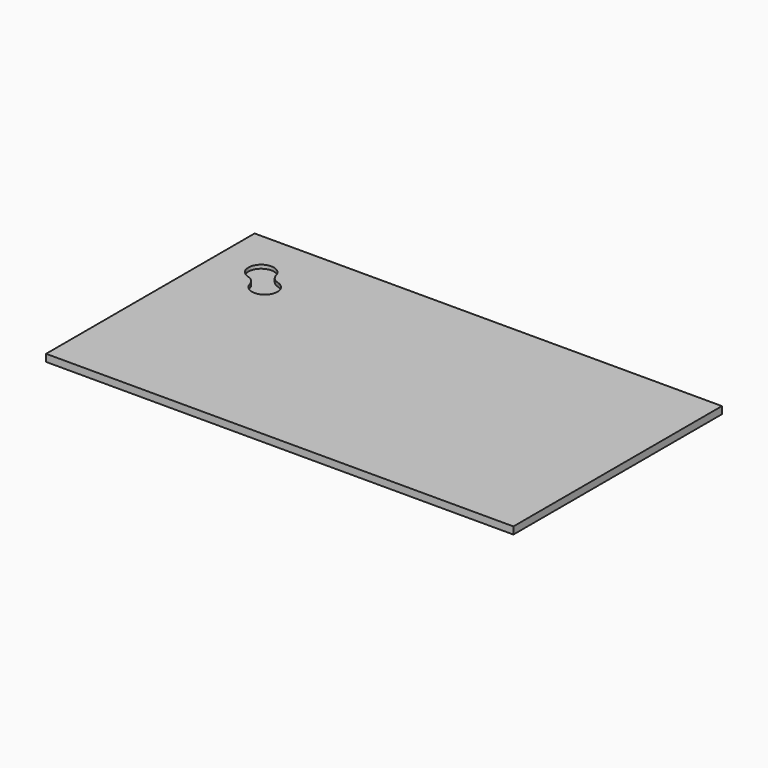
from build123d import *

# Parameters (mm, degrees)
F0_W     = 156
F0_H     = 87
F2_DEPTH = 2.4
F3_DEPTH = 1.2


with BuildPart() as f2:
    # F0 (on Top) → F2 (new body)
    with BuildSketch(Plane.XY):
        with Locations((2.328925, -33.952482)):
            Rectangle(F0_W, F0_H)
    extrude(amount=-F2_DEPTH)

    # F1 (on Top) → F3 (cut)
    with BuildSketch(Plane.XY):
        with BuildLine():
            ThreePointArc((-61.778157, -10.555758), (-59.87484, -11.659033), (-58.778157, -13.566156))
            ThreePointArc((-58.778157, -13.566156), (-51.671075, -15.483678), (-53.563993, -8.370004))
            ThreePointArc((-53.563993, -8.370004), (-55.46731, -7.266728), (-56.563993, -5.359605))
            ThreePointArc((-56.563993, -5.359605), (-63.671075, -3.442083), (-61.778157, -10.555758))
        make_face()
    extrude(amount=-F3_DEPTH, mode=Mode.SUBTRACT)


solid = f2.part
